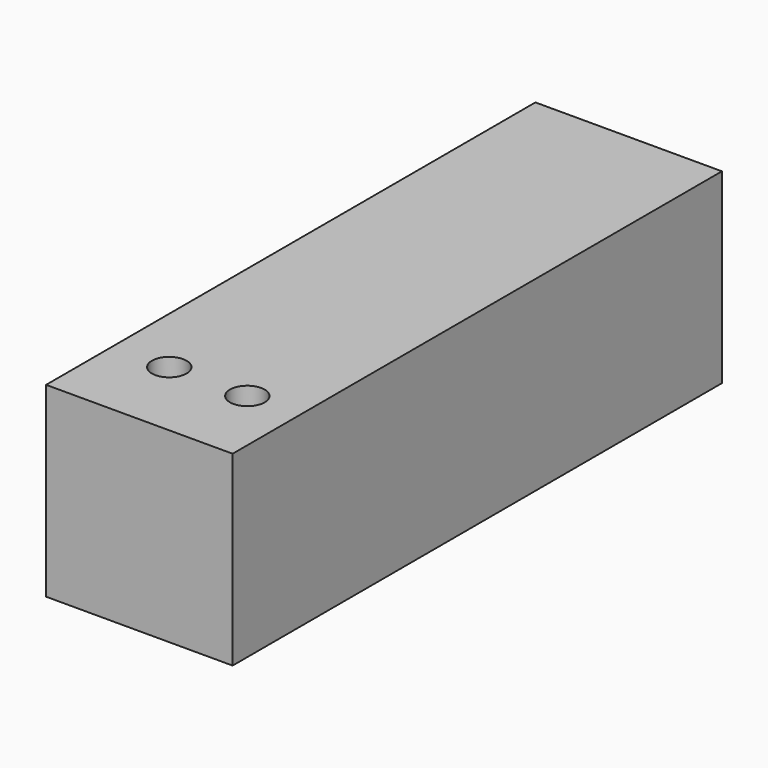
from build123d import *

# Parameters (mm, degrees)
F0_W     = 43
F0_H     = 43
F1_DEPTH = 141
F3_D     = 8
F3_DEPTH = 19
F3_TIP   = 2.4034424761
F4_D     = 8
F4_DEPTH = 19
F4_TIP   = 2.4034424761


with BuildPart() as f1:
    # F0 (on Front) → F1 (new body)
    with BuildSketch(Plane.XZ):
        with Locations((21.5, 21.5)):
            Rectangle(F0_W, F0_H)
        with Locations((21.5, 21.5)):
            Rectangle(F0_W, F0_H)
    extrude(amount=F1_DEPTH)

    # F3
    with Locations(Plane.XY.offset(43)):
        with Locations((31, -121.7597126961)):
            Hole(F3_D / 2, depth=F3_DEPTH)
            with Locations((0, 0, -(F3_DEPTH + F3_TIP / 2))):  # 118° drill point
                Cone(0, F3_D / 2, F3_TIP, mode=Mode.SUBTRACT)

    # F4
    with Locations(Plane.XY.offset(43)):
        with Locations((13, -121.7597126961)):
            Hole(F4_D / 2, depth=F4_DEPTH)
            with Locations((0, 0, -(F4_DEPTH + F4_TIP / 2))):  # 118° drill point
                Cone(0, F4_D / 2, F4_TIP, mode=Mode.SUBTRACT)


solid = f1.part
